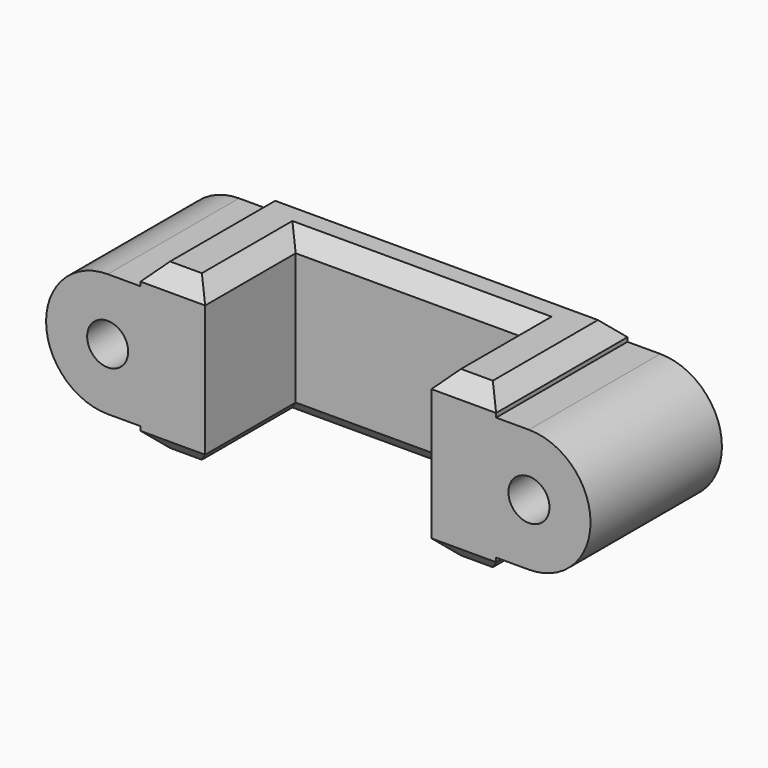
from build123d import *

# Parameters (mm, degrees)
F1_DEPTH = 25.4
F2_R     = 3.175
F3_DEPTH = 25.4
F4_SIZE  = 2.54


with BuildPart() as f1:
    # F0 (on Top) → F1 (new body)
    with BuildSketch(Plane.XY):
        Polygon((-17.5, 17.5), (17.5, 17.5), (17.5, 0), (27.5, 0), (27.5, 25.4), (-27.5, 25.4), (-27.5, 0), (-17.5, 0), align=None)
    extrude(amount=F1_DEPTH)

    # F2 (on Front) → F3 (join)
    with BuildSketch(Plane.XZ):
        with BuildLine():
            Line((-27.5, 3.175), (-27.5, 22.225))
            Line((-27.5, 22.225), (-32.58, 22.225))
            ThreePointArc((-32.58, 22.225), (-42.105, 12.7), (-32.58, 3.175))
            Line((-32.58, 3.175), (-27.5, 3.175))
        make_face()
        with Locations((-32.58, 12.7)):
            Circle(F2_R, mode=Mode.SUBTRACT)
    extrude(amount=-F3_DEPTH)

    # F4
    f4_edges = [f1.edges().sort_by_distance(p)[0] for p in [
        (0, 17.5, 0),
        (17.5, 8.75, 0),
        (22.5, 0, 0),
        (27.5, 12.7, 0),
        (0, 25.4, 0),
        (-27.5, 12.7, 0),
        (-22.5, 0, 0),
        (-17.5, 8.75, 0),
        (0, 17.5, 25.4),
        (17.5, 8.75, 25.4),
        (22.5, 0, 25.4),
        (27.5, 12.7, 25.4),
        (0, 25.4, 25.4),
        (-27.5, 12.7, 25.4),
        (-22.5, 0, 25.4),
        (-17.5, 8.75, 25.4),
    ]]
    chamfer(f4_edges, length=F4_SIZE)

    # F5: F1 across plane


with BuildPart() as f1_1:
    add(f1.part)
    add(f1.part.mirror(Plane.YZ))


solid = f1_1.part
